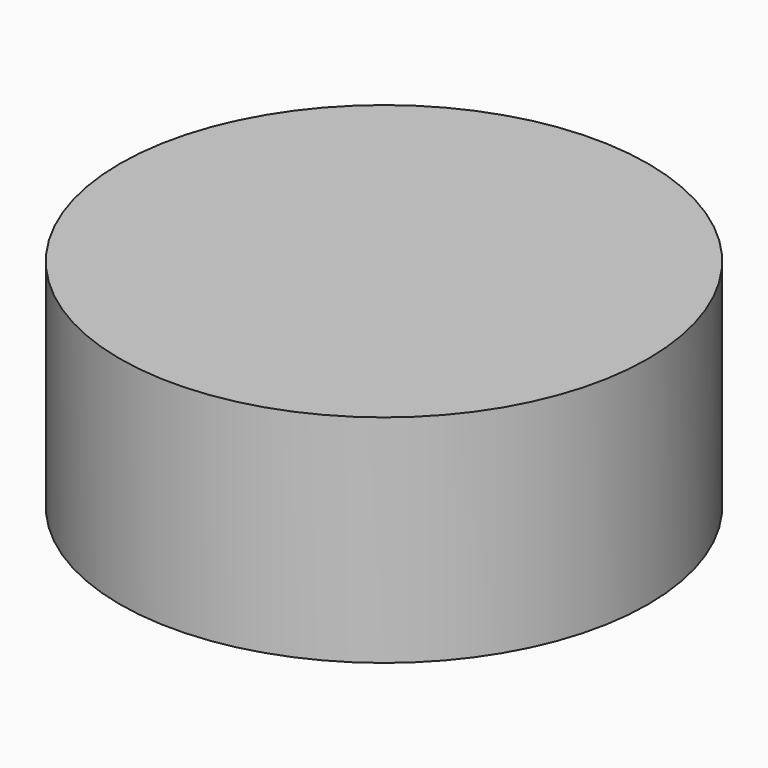
from build123d import *

# Parameters (mm, degrees)
CYLINDER_R     = 18.3261
CYLINDER_DEPTH = 15


with BuildPart() as part:
    # Cylinder → Cylinder (new body)
    with BuildSketch(Plane.XY.offset(-2.5)):
        Circle(CYLINDER_R)
    extrude(amount=CYLINDER_DEPTH)


solid = part.part
